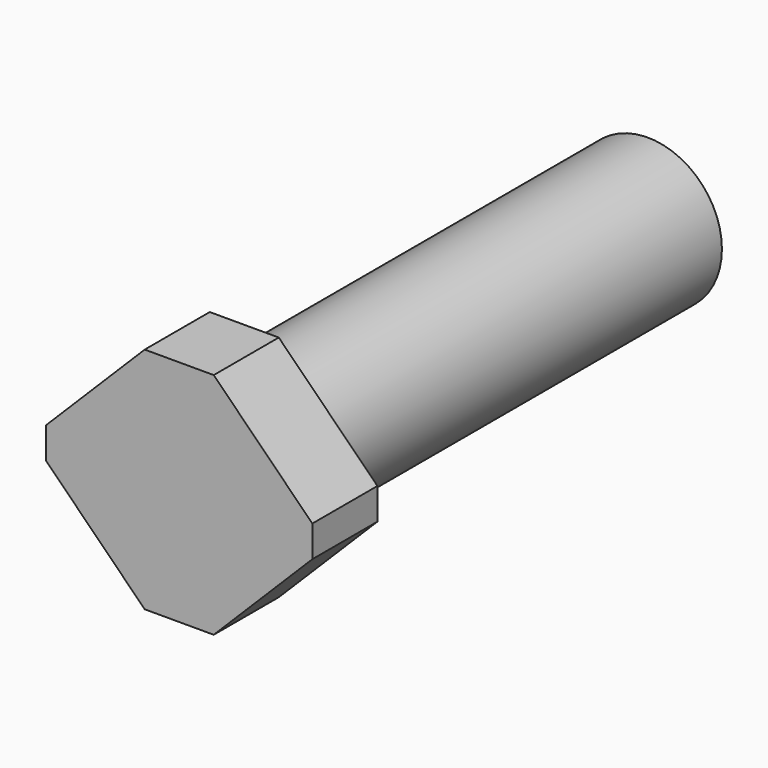
from build123d import *

# Parameters (mm, degrees)
F0_R     = 76.389164
F1_DEPTH = 519.66989
F2_W     = 274.323284
F2_H     = 235.549598
F3_DEPTH = 83.782351
F4_SIZE  = 101.6


with BuildPart() as f1:
    # F0 (on Front) → F1 (new body)
    with BuildSketch(Plane.XZ):
        Circle(F0_R)
    extrude(amount=-F1_DEPTH)

    # F2 (on Front) → F3 (join)
    with BuildSketch(Plane.XZ):
        Rectangle(F2_W, F2_H)
    extrude(amount=F3_DEPTH)

    # F4
    f4_edges = [f1.edges().sort_by_distance(p)[0] for p in [
        (137.161642, -41.891175, 117.774799),
        (-137.161642, -41.891175, 117.774799),
        (-137.161642, -41.891175, -117.774799),
        (137.161642, -41.891175, -117.774799),
    ]]
    chamfer(f4_edges, length=F4_SIZE)


solid = f1.part
